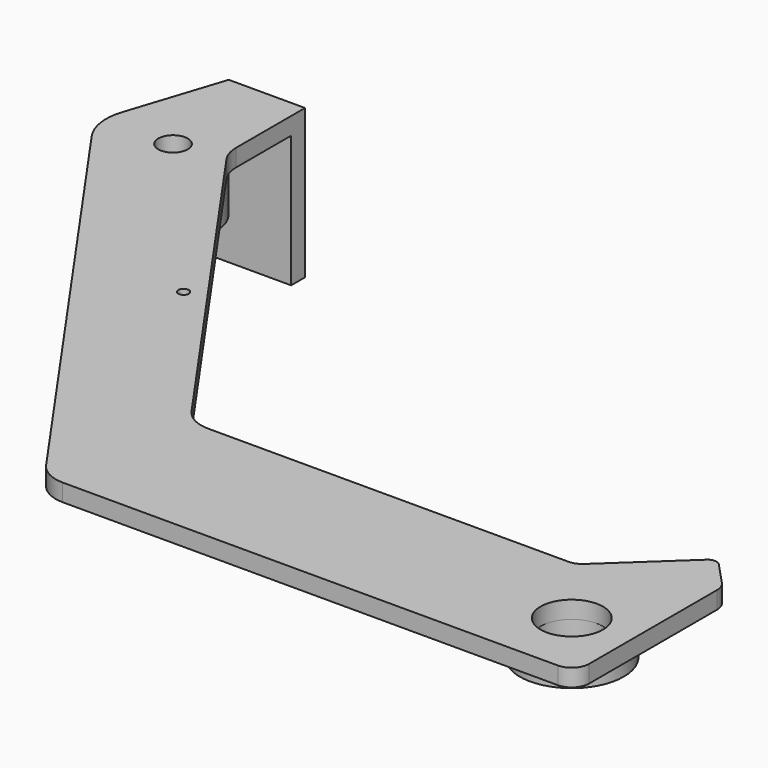
from build123d import *

# Parameters (mm, degrees)
F0_R     = 9
F0_R_2   = 1.5
F1_DEPTH = 5
F3_DEPTH = 38
F4_R     = 12.5
F5_DEPTH = 13
F6_R     = 4.25
F7_DEPTH = 43.001
F8_R     = 15
F8_R_2   = 9.25
F9_DEPTH = 5


with BuildPart() as f1:
    # F0 (on Top) → F1 (new body)
    with BuildSketch(Plane.XY):
        with BuildLine():
            Line((-147.794329, 0), (-5, 0))
            ThreePointArc((-5, 0), (-1.464466, 1.464466), (0, 5))
            Line((0, 5), (0, 51.119951))
            ThreePointArc((0, 51.119951), (-0.347912, 52.952457), (-1.343231, 54.529943))
            Line((-1.343231, 54.529943), (-7.501982, 61.134394))
            ThreePointArc((-7.501982, 61.134394), (-9.243117, 61.927875), (-11.035362, 61.257782))
            Line((-11.035362, 61.257782), (-31.318735, 42.343231))
            ThreePointArc((-31.318735, 42.343231), (-32.89622, 41.347912), (-34.728727, 41))
            Line((-34.728727, 41), (-138.658826, 41))
            ThreePointArc((-138.658826, 41), (-143.276312, 42.129892), (-146.850347, 45.264236))
            Line((-146.850347, 45.264236), (-217.481319, 146.135717))
            ThreePointArc((-217.481319, 146.135717), (-218.826968, 148.864424), (-219.289798, 151.871482))
            Line((-219.289798, 151.871482), (-219.289798, 176.718494))
            Line((-219.289798, 176.718494), (-241.289798, 176.718494))
            Line((-241.289798, 176.718494), (-250.214761, 149.250282))
            ThreePointArc((-250.214761, 149.250282), (-250.784151, 142.397886), (-248.236194, 136.011381))
            Line((-248.236194, 136.011381), (-155.98585, 4.264236))
            ThreePointArc((-155.98585, 4.264236), (-152.411816, 1.129892), (-147.794329, 0))
        make_face()
        with Locations((-17, 20)):
            Circle(F0_R, mode=Mode.SUBTRACT)
        with Locations((-184.623116, 89.620384)):
            Circle(F0_R_2, mode=Mode.SUBTRACT)
    extrude(amount=F1_DEPTH)

    # F2 (on face) → F3 (join)
    with BuildSketch(Plane(origin=(0, 0, 0), x_dir=(1, 0, 0), z_dir=(0, 0, -1))):
        Polygon((-242.914397, -171.718494), (-241.289798, -176.718494), (-219.289798, -176.718494), (-219.289798, -171.718494), align=None)
    extrude(amount=F3_DEPTH)

    # F4 (on face) → F5 (join)
    with BuildSketch(Plane.XY):
        with Locations((-231.539798, 144.468494)):
            Circle(F4_R)
    extrude(amount=-F5_DEPTH)

    # F6 (on face) → F7 (cut, through all)
    with BuildSketch(Plane.XY.offset(5)):
        with Locations((-231.539798, 144.468494)):
            Circle(F6_R)
    extrude(amount=-F7_DEPTH, mode=Mode.SUBTRACT)


with BuildPart() as f9:
    # F8 (on face) → F9 (new body)
    with BuildSketch(Plane(origin=(0, 0, 0), x_dir=(1, 0, 0), z_dir=(0, 0, -1))):
        with Locations((-17, -20)):
            Circle(F8_R)
        with Locations((-17, -20)):
            Circle(F8_R_2, mode=Mode.SUBTRACT)
    extrude(amount=F9_DEPTH)


solid = Compound([f1.part, f9.part])
